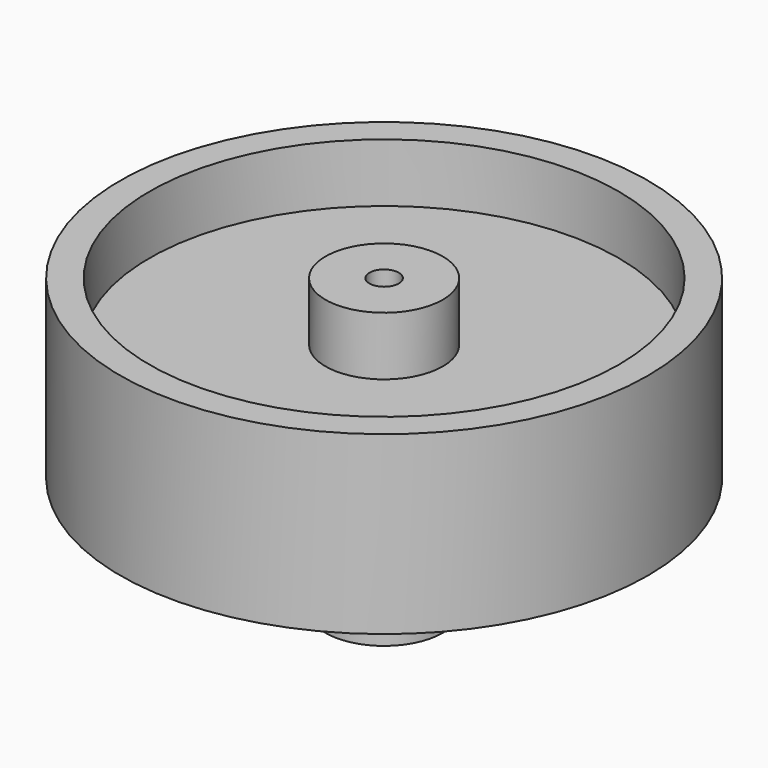
from build123d import *

# Parameters (mm, degrees)
F0_R     = 22.5
F0_R_2   = 20
F1_DEPTH = 15
F0_R_3   = 5
F2_DEPTH = 10
F3_DEPTH = 5
F0_R_4   = 1.25
F4_DEPTH = 25
F5_D     = 2.5
F5_DEPTH = 12
F5_TIP   = 0.7510757738


with BuildPart() as f1:
    # F0 (on Top) → F1 (new body)
    with BuildSketch(Plane.XY):
        Circle(F0_R)
        Circle(F0_R_2, mode=Mode.SUBTRACT)
    extrude(amount=-F1_DEPTH)

    # F0 (on Top) → F2 (join)
    with BuildSketch(Plane.XY):
        Circle(F0_R_2)
        Circle(F0_R_3, mode=Mode.SUBTRACT)
    extrude(amount=-F2_DEPTH)

    # F0 (on Top) → F3 (cut)
    with BuildSketch(Plane.XY):
        Circle(F0_R_2)
        Circle(F0_R_3, mode=Mode.SUBTRACT)
    extrude(amount=-F3_DEPTH, mode=Mode.SUBTRACT)

    # F0 (on Top) → F4 (join)
    with BuildSketch(Plane.XY):
        Circle(F0_R_3)
        Circle(F0_R_4, mode=Mode.SUBTRACT)
        Circle(F0_R_4)
    extrude(amount=-F4_DEPTH)

    # F5
    with Locations(Plane.XY):
        with Locations((0, 0)):
            Hole(F5_D / 2, depth=F5_DEPTH)
            with Locations((0, 0, -(F5_DEPTH + F5_TIP / 2))):  # 118° drill point
                Cone(0, F5_D / 2, F5_TIP, mode=Mode.SUBTRACT)


solid = f1.part
